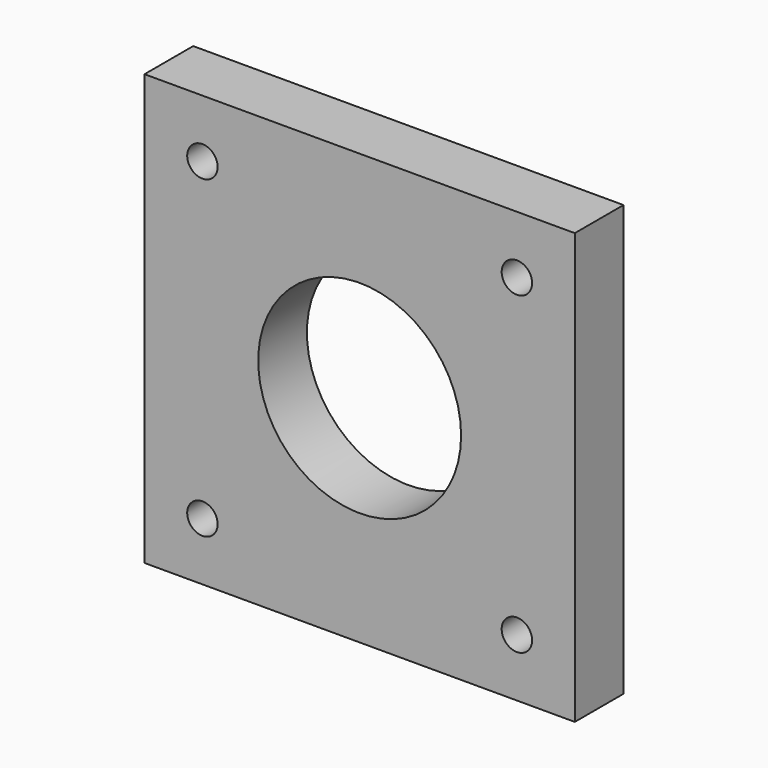
from build123d import *

# Parameters (mm, degrees)
F2_W     = 42.418
F2_H     = 42.418
F2_R     = 1.5
F2_R_2   = 10
F3_DEPTH = 6


with BuildPart() as f3:
    # F2 (on Front) → F3 (new body)
    with BuildSketch(Plane.XZ):
        Rectangle(F2_W, F2_H)
        with Locations((-15.5, -15.5)):
            Circle(F2_R, mode=Mode.SUBTRACT)
        with Locations((15.5, -15.5)):
            Circle(F2_R, mode=Mode.SUBTRACT)
        with Locations((-15.5, 15.5)):
            Circle(F2_R, mode=Mode.SUBTRACT)
        Circle(F2_R_2, mode=Mode.SUBTRACT)
        with Locations((15.5, 15.5)):
            Circle(F2_R, mode=Mode.SUBTRACT)
    extrude(amount=F3_DEPTH)


with BuildPart() as f4_1:
    # F4: copy of F3
    add(f3.part)


solid = Compound([f3.part, f4_1.part])
